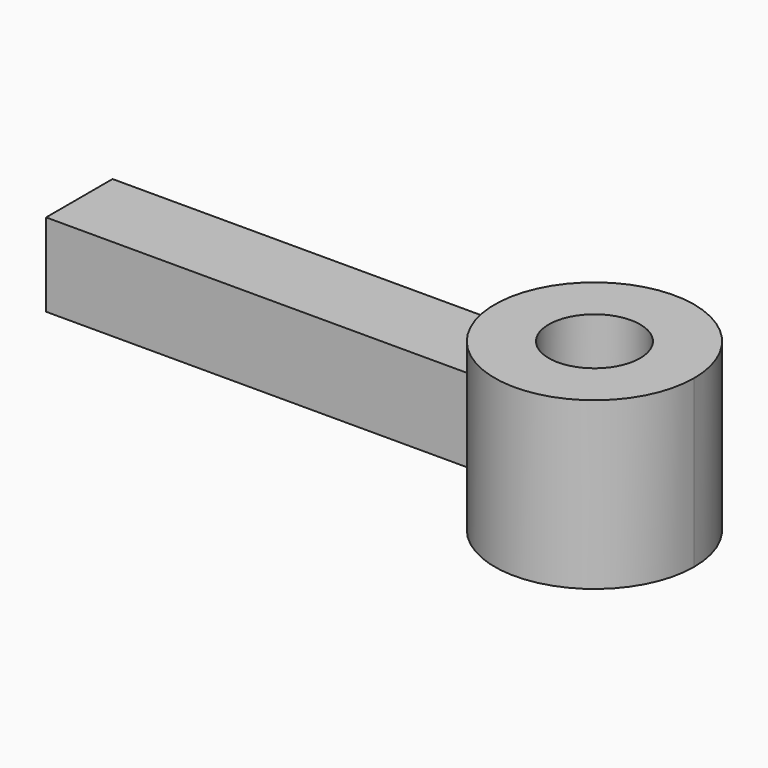
from build123d import *

# Parameters (mm, degrees)
F0_R     = 11
F1_DEPTH = 20
F2_DEPTH = 10
F3_DEPTH = 25


with BuildPart() as f1:
    # F0 (on Top) → F1 (new body, symmetric)
    with BuildSketch(Plane.XY):
        with BuildLine():
            ThreePointArc((-21.817424, -10), (5.117705, -23.448008), (24, 0))
            ThreePointArc((24, 0), (5.117705, 23.448008), (-21.817424, 10))
            ThreePointArc((-21.817424, 10), (-24, 0), (-21.817424, -10))
        make_face()
        Circle(F0_R, mode=Mode.SUBTRACT)
    extrude(amount=F1_DEPTH, both=True)

    # F0 (on Top) → F2 (join, symmetric)
    with BuildSketch(Plane.XY):
        with BuildLine():
            ThreePointArc((-21.817424, -10), (-24, 0), (-21.817424, 10))
            Line((-21.817424, 10), (-124, 10))
            Line((-124, 10), (-124, 0))
            Line((-124, 0), (-124, -10))
            Line((-124, -10), (-21.817424, -10))
        make_face()
    extrude(amount=F2_DEPTH, both=True)

    # F0 (on Top) → F3 (cut)
    with BuildSketch(Plane.XY):
        Circle(F0_R)
    extrude(amount=F3_DEPTH, mode=Mode.SUBTRACT)


solid = f1.part
